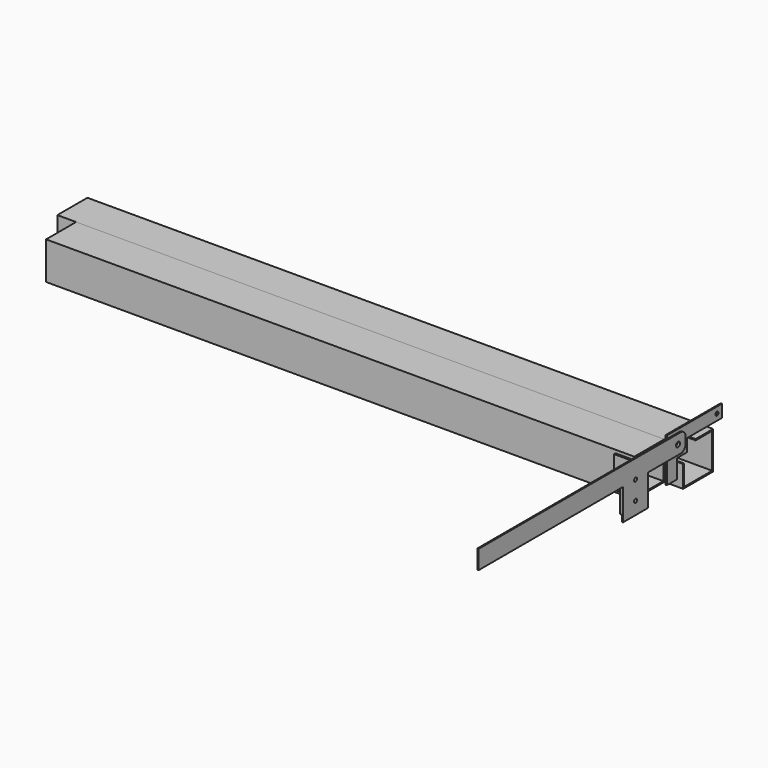
from build123d import *

# Parameters (mm, degrees)
F0_W           = 60
F0_H           = 60
F0_W_2         = 56
F0_H_2         = 56
F1_DEPTH       = 500
F1_DEPTH_BACK  = 500
F3_R           = 4
F3_R_2         = 3
F4_DEPTH       = 2
F7_W           = 20.7223480755
F7_H           = 20.1128678018
F8_DEPTH       = 100
F9_W           = 55.9808363225
F9_H           = 55.5502105092
F10_DEPTH      = 25
F11_W          = 60
F11_H          = 60
F11_W_2        = 56
F11_H_2        = 56
F12_DEPTH      = 470
F12_DEPTH_BACK = 470
F13_R          = 3
F13_R_2        = 4
F14_DEPTH      = 2
F16_DEPTH      = 25
F18_D          = 6
F20_D          = 6


with BuildPart() as f1:
    # F0 (on Right) → F1 (new body, two sides)
    with BuildSketch(Plane.YZ) as f1_sk:
        Rectangle(F0_W, F0_H)
        Rectangle(F0_W_2, F0_H_2, mode=Mode.SUBTRACT)
    extrude(amount=F1_DEPTH)
    extrude(f1_sk.sketch, amount=-F1_DEPTH_BACK)

    # F7 (on offset) → F8 (cut)
    with BuildSketch(Plane.YZ.offset(470)):
        with Locations((-25.3611740378, 25.0564339009)):
            Rectangle(F7_W, F7_H)
    extrude(amount=F8_DEPTH, mode=Mode.SUBTRACT)

    # F9 (on offset) → F10 (cut)
    with BuildSketch(Plane.YZ.offset(488)):
        with Locations((-32.9904181612, 32.7751052546)):
            Rectangle(F9_W, F9_H)
    extrude(amount=F10_DEPTH, mode=Mode.SUBTRACT)


with BuildPart() as f4:
    # F3 (on offset) → F4 (new body)
    with BuildSketch(Plane.YZ.offset(490)):
        Polygon((60, 50), (-50, 50), (-50, -20), (-30, -20), (-30, 10), (-10, 10), (-10, 30), (60, 30), align=None)
        with Locations((-30, 30)):
            Circle(F3_R, mode=Mode.SUBTRACT)
        with Locations((50, 40)):
            Circle(F3_R_2, mode=Mode.SUBTRACT)
    extrude(amount=-F4_DEPTH)


with BuildPart() as f12:
    # F11 (on Right) → F12 (new body, two sides)
    with BuildSketch(Plane.YZ) as f12_sk:
        with Locations((-60, 0)):
            Rectangle(F11_W, F11_H)
        with Locations((-60, 0)):
            Rectangle(F11_W_2, F11_H_2, mode=Mode.SUBTRACT)
    extrude(amount=F12_DEPTH)
    extrude(f12_sk.sketch, amount=-F12_DEPTH_BACK)


with BuildPart() as f14:
    # F13 (on offset) → F14 (new body)
    with BuildSketch(Plane.YZ.offset(490)):
        with BuildLine():
            ThreePointArc((-15, 35), (-17.9289321881, 42.0710678119), (-25, 45))
            Line((-25, 45), (-428.7096833438, 45))
            Line((-428.7096833438, 45), (-428.7096833438, 15))
            Line((-428.7096833438, 15), (-140, 15))
            Line((-140, 15), (-140, -35))
            Line((-140, -35), (-90, -35))
            Line((-90, -35), (-90, 15))
            Line((-90, 15), (-25, 15))
            ThreePointArc((-25, 15), (-17.9289321881, 17.9289321881), (-15, 25))
            Line((-15, 25), (-15, 35))
        make_face()
        with Locations((-115, -15)):
            Circle(F13_R, mode=Mode.SUBTRACT)
        with Locations((-115, 15)):
            Circle(F13_R, mode=Mode.SUBTRACT)
        with Locations((-30, 30)):
            Circle(F13_R_2, mode=Mode.SUBTRACT)
    extrude(amount=F14_DEPTH)


with BuildPart() as f16:
    # F15 (on Top) → F16 (new body, symmetric)
    with BuildSketch(Plane.XY):
        Polygon((490, -90), (440, -90), (440, -93), (487, -93), (487, -140), (490, -140), align=None)
    extrude(amount=F16_DEPTH, both=True)

    # F18 (through all)
    with Locations(Plane(origin=(487, 0, 0), x_dir=(0, -1, 0), z_dir=(-1, 0, 0))):
        with Locations((115, 15)):
            Hole(F18_D / 2)

    # F20 (through all)
    with Locations(Plane(origin=(487, 0, 0), x_dir=(0, -1, 0), z_dir=(-1, 0, 0))):
        with Locations((115, -15)):
            Hole(F20_D / 2)


solid = Compound([f1.part, f4.part, f12.part, f14.part, f16.part])
